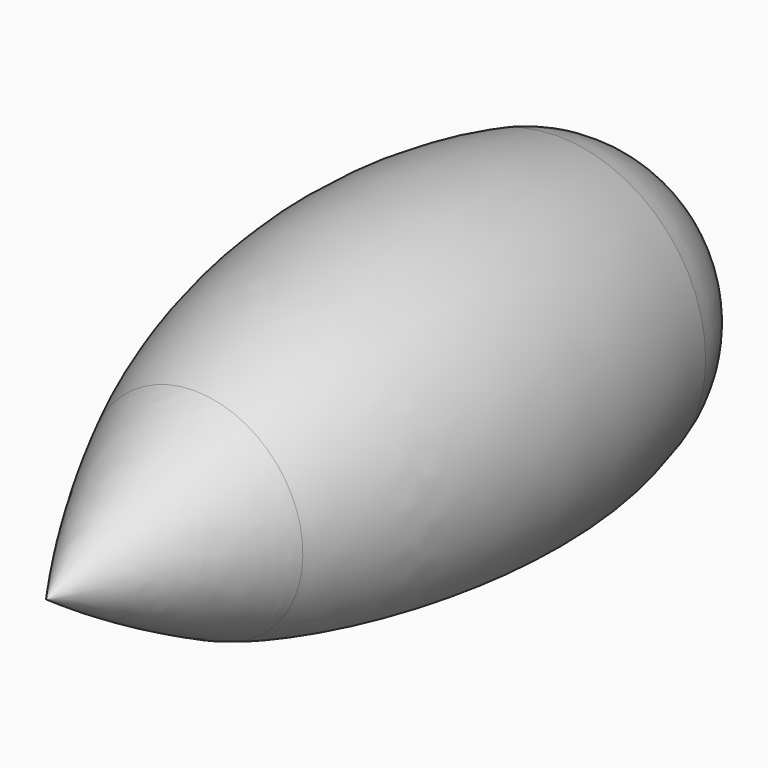
from build123d import *

# Parameters (mm, degrees)
F3_R     = 146.278715
F4_DEPTH = 25.4


with BuildPart() as f1:
    # F0 (on Right) → F1 (revolve)
    with BuildSketch(Plane.YZ):
        with BuildLine():
            Line((-195.15869, 0), (0, 0))
            ThreePointArc((0, 0), (-8.17526, 24.151908), (-29.339399, 38.372625))
            ThreePointArc((-29.339399, 38.372625), (-89.078777, 43.69117), (-146.974817, 28.034585))
            ThreePointArc((-146.974817, 28.034585), (-171.672592, 15.058565), (-195.15869, 0))
        make_face()
    revolve(axis=Axis((0, -97.579345, 0), (0, 1, 0)))

    # F3 (on offset) → F4 (cut)
    with BuildSketch(Plane.XY.offset(-25.4)):
        with Locations((0, -91.168791)):
            Circle(F3_R)
    extrude(amount=-F4_DEPTH, mode=Mode.SUBTRACT)


solid = f1.part
